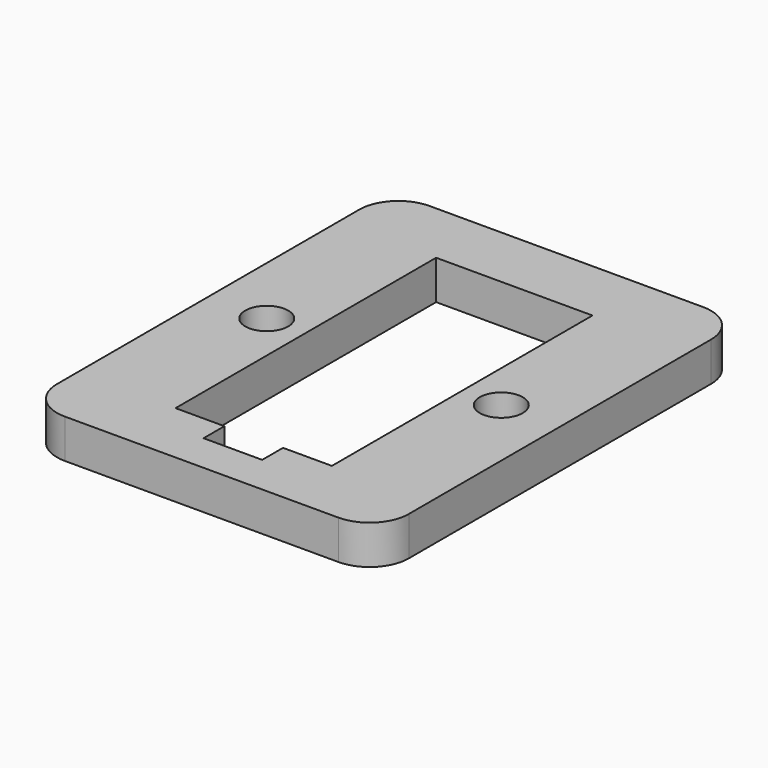
from build123d import *

# Parameters (mm, degrees)
F1_DEPTH = 3
F3_D     = 3.3
F5_DEPTH = 3.001


with BuildPart() as f1:
    # F0 (on Top) → F1 (new body)
    with BuildSketch(Plane.XY):
        with BuildLine():
            Line((10.5, 17.5), (-10.5, 17.5))
            ThreePointArc((-10.5, 17.5), (-12.62132, 16.62132), (-13.5, 14.5))
            Line((-13.5, 14.5), (-13.5, -14.5))
            ThreePointArc((-13.5, -14.5), (-12.62132, -16.62132), (-10.5, -17.5))
            Line((-10.5, -17.5), (10.5, -17.5))
            ThreePointArc((10.5, -17.5), (12.62132, -16.62132), (13.5, -14.5))
            Line((13.5, -14.5), (13.5, 14.5))
            ThreePointArc((13.5, 14.5), (12.62132, 16.62132), (10.5, 17.5))
        make_face()
    extrude(amount=F1_DEPTH)

    # F3 (through all)
    with Locations(Plane.XY.offset(3)):
        with Locations((-9, 0), (9, 0)):
            Hole(F3_D / 2)

    # F4 (on face) → F5 (cut, through all)
    with BuildSketch(Plane.XY.offset(3)):
        Polygon((6, 12.5), (-6, 12.5), (-6, -12.5), (-2.25, -12.5), (-2.25, -14.5), (2.25, -14.5), (2.25, -12.5), (6, -12.5), align=None)
    extrude(amount=-F5_DEPTH, mode=Mode.SUBTRACT)


solid = f1.part
